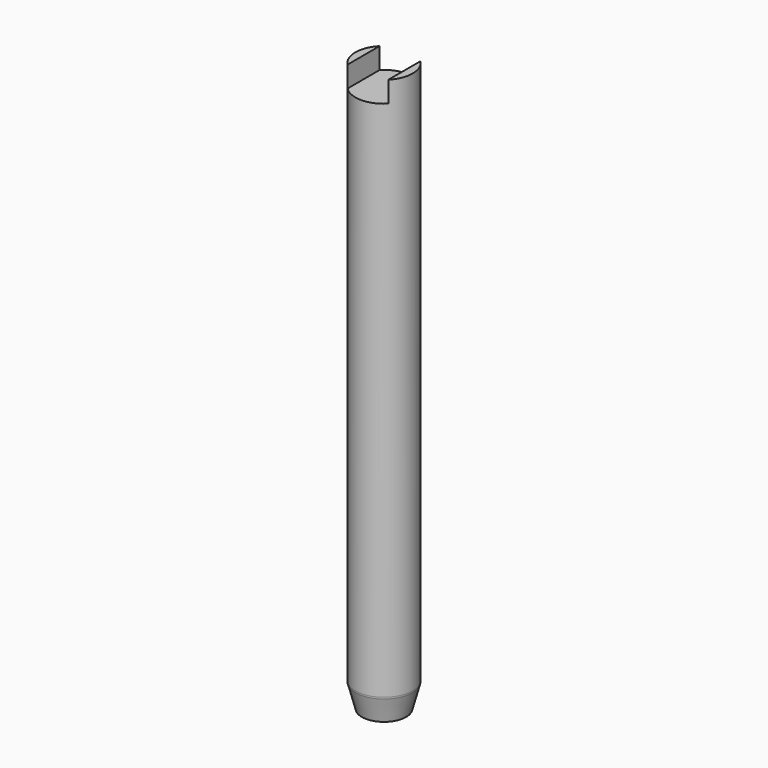
from build123d import *

# Parameters (mm, degrees)
F2_W     = 4.85
F2_H     = 5
F3_DEPTH = 12.7


with BuildPart() as f1:
    # F0 (on Front) → F1 (revolve)
    with BuildSketch(Plane.XZ):
        with BuildLine():
            Line((3.4, 0), (0, 0))
            Line((0, 0), (0, -67.5))
            Line((0, -67.5), (2.63, -67.5))
            Line((2.63, -67.5), (3.372741, -64.728054))
            ThreePointArc((3.372741, -64.728054), (3.393156, -64.62542), (3.4, -64.520999))
            Line((3.4, -64.520999), (3.4, 0))
        make_face()
    revolve(axis=Axis((0, 0, -33.75), (0, 0, -1)))

    # F2 (on Front) → F3 (cut, symmetric)
    with BuildSketch(Plane.XZ):
        Rectangle(F2_W, F2_H)
    extrude(amount=F3_DEPTH, both=True, mode=Mode.SUBTRACT)


solid = f1.part
